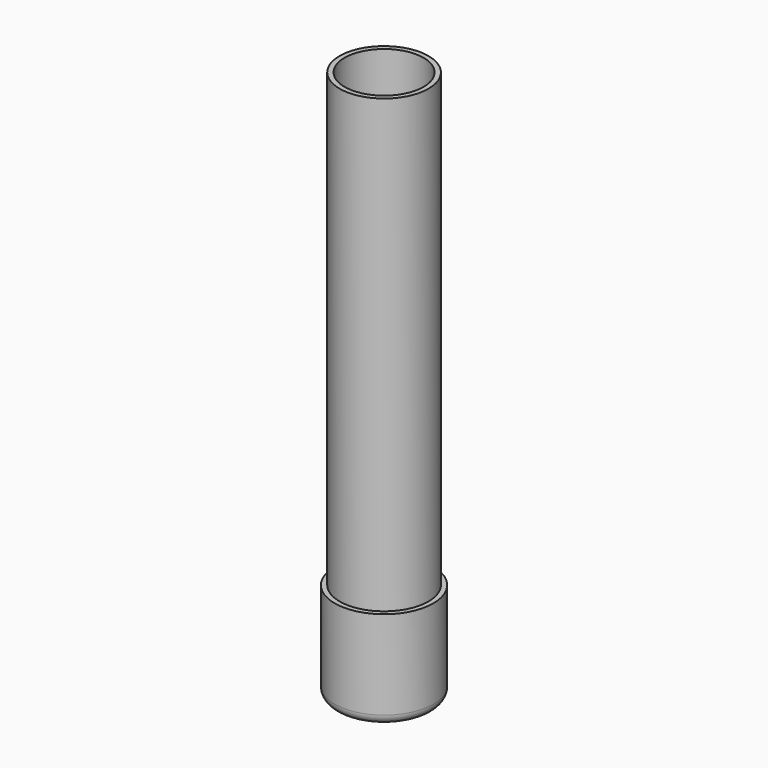
from build123d import *

# Parameters (mm, degrees)
F0_R     = 45
F0_R_2   = 40
F1_DEPTH = 50
F0_R_3   = 50
F2_DEPTH = 100
F3_DEPTH = 5
F4_R     = 10
F5_DEPTH = 507.5


with BuildPart() as f1:
    # F0 (on Top) → F1 (new body)
    with BuildSketch(Plane.XY):
        Circle(F0_R)
        Circle(F0_R_2, mode=Mode.SUBTRACT)
    extrude(amount=F1_DEPTH)

    # F0 (on Top) → F2 (join)
    with BuildSketch(Plane.XY):
        Circle(F0_R_3)
        Circle(F0_R, mode=Mode.SUBTRACT)
    extrude(amount=F2_DEPTH)

    # F0 (on Top) → F3 (join)
    with BuildSketch(Plane.XY):
        Circle(F0_R_3)
        Circle(F0_R, mode=Mode.SUBTRACT)
        Circle(F0_R)
        Circle(F0_R_2, mode=Mode.SUBTRACT)
        Circle(F0_R_2)
    extrude(amount=F3_DEPTH)

    # F4
    f4_edges = [f1.edges().sort_by_distance(p)[0] for p in [
        (-50, 0, 0),
    ]]
    fillet(f4_edges, radius=F4_R)

    # F5 (add): a face of the model
    f5_faces = [f1.faces().sort_by_distance(p)[0] for p in [
        (-43.7272077939, 0, 50),
    ]]
    extrude(f5_faces, amount=F5_DEPTH)


solid = f1.part
